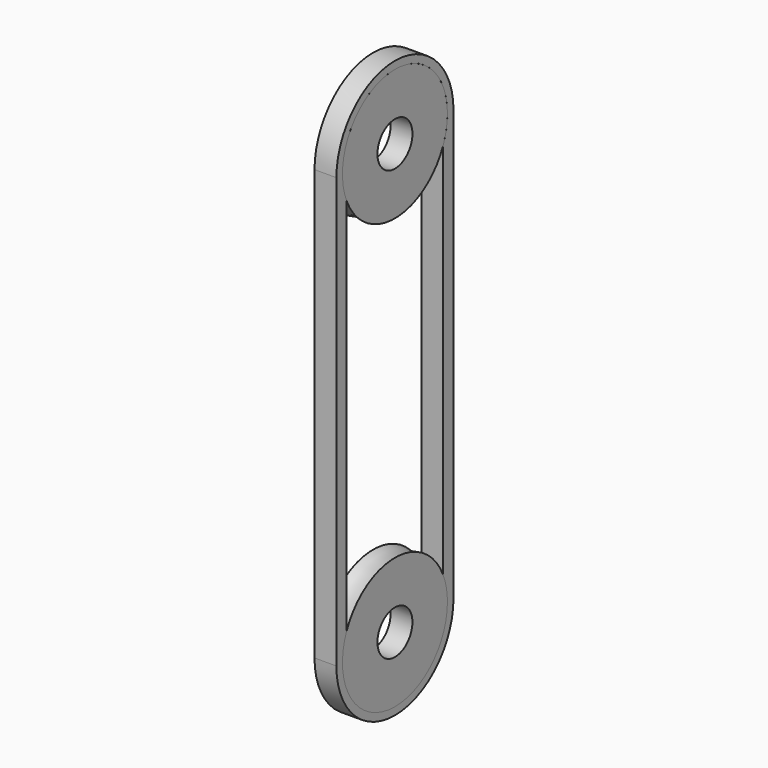
from build123d import *

# Parameters (mm, degrees)
F5_DEPTH = 12.7


with BuildPart() as f1:
    # F0 (on Front) → F1 (revolve)
    with BuildSketch(Plane.XZ):
        with BuildLine():
            Line((-10.9352547455, 38.1), (-10.9352547455, 12.7))
            Line((-10.9352547455, 12.7), (1.7647452545, 12.7))
            Line((1.7647452545, 12.7), (1.7647452545, 38.1))
            ThreePointArc((1.7647452545, 38.1), (-4.5852547455, 37.0773625405), (-10.9352547455, 38.1))
        make_face()
    revolve(axis=Axis((-4.5852547455, 0, 0), (1, 0, 0)))


with BuildPart() as f3_1:
    # F3: instance of F1
    add(f1.part.mirror(Plane.XY.offset(-124.825)))



with BuildPart() as f5:
    # F4 (on face) → F5 (new body, through all)
    with BuildSketch(Plane.YZ.offset(1.7647452545)):
        with BuildLine():
            Line((-35, -124.825), (-35, -24.1091269025))
            ThreePointArc((-35, -24.1091269025), (-40.5817077019, -12.624381173), (-42.5, 0))
            Line((-42.5, 0), (-42.5, -124.825))
            Line((-42.5, -124.825), (-35, -124.825))
        make_face()
        with BuildLine():
            ThreePointArc((42.5, 0), (40.5817077019, -12.624381173), (35, -24.1091269025))
            Line((35, -24.1091269025), (35, -124.825))
            Line((35, -124.825), (42.5, -124.825))
            Line((42.5, -124.825), (42.5, 0))
        make_face()
        with BuildLine():
            ThreePointArc((38.1, 0), (37.3169532518, -7.6847251089), (35, -15.0535710049))
            Line((35, -15.0535710049), (35, -24.1091269025))
            ThreePointArc((35, -24.1091269025), (40.5817077019, -12.624381173), (42.5, 0))
            ThreePointArc((42.5, 0), (0, 42.5), (-42.5, 0))
            ThreePointArc((-42.5, 0), (-40.5817077019, -12.624381173), (-35, -24.1091269025))
            Line((-35, -24.1091269025), (-35, -15.0535710049))
            ThreePointArc((-35, -15.0535710049), (-7.6847251089, 37.3169532518), (38.1, 0))
        make_face()
    extrude(amount=-F5_DEPTH)


with BuildPart() as f3_1_1:
    add(f3_1.part)

    add(f5.part)  # F6 merges F5
    # F6: F5 across plane
    add(f5.part.mirror(Plane.XY.offset(-124.825)))


solid = Compound([f1.part, f3_1_1.part])
